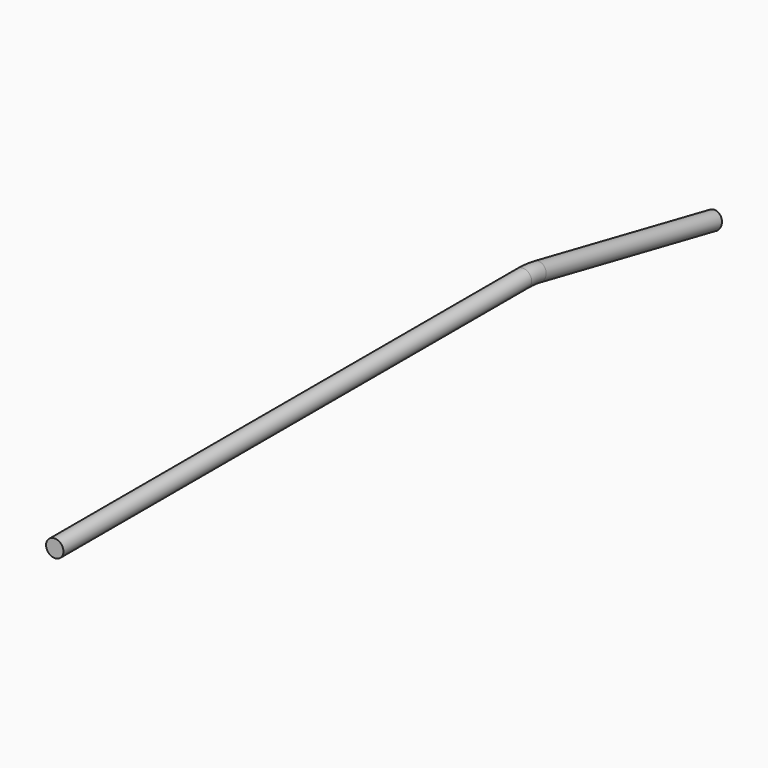
from build123d import *

# Parameters (mm, degrees)
F1_R = 19


with BuildPart() as f2:
    # F2: sweep along a path in F0
    with BuildLine(Plane.YZ) as f2_path:
        Line((-914.831161499, 100), (365.3649357824, 100))
        ThreePointArc((365.3649357824, 100), (385.0724593757, 99.0266653336), (404.5881628101, 96.1161351382))
        Line((404.5881628101, 96.1161351382), (885.168838501, 0))
    # F1 (on Front) → F2 (sweep)
    with BuildSketch(Plane.XZ):
        with Locations((0, 100)):
            Circle(F1_R)
    sweep(path=f2_path.line)


solid = f2.part
